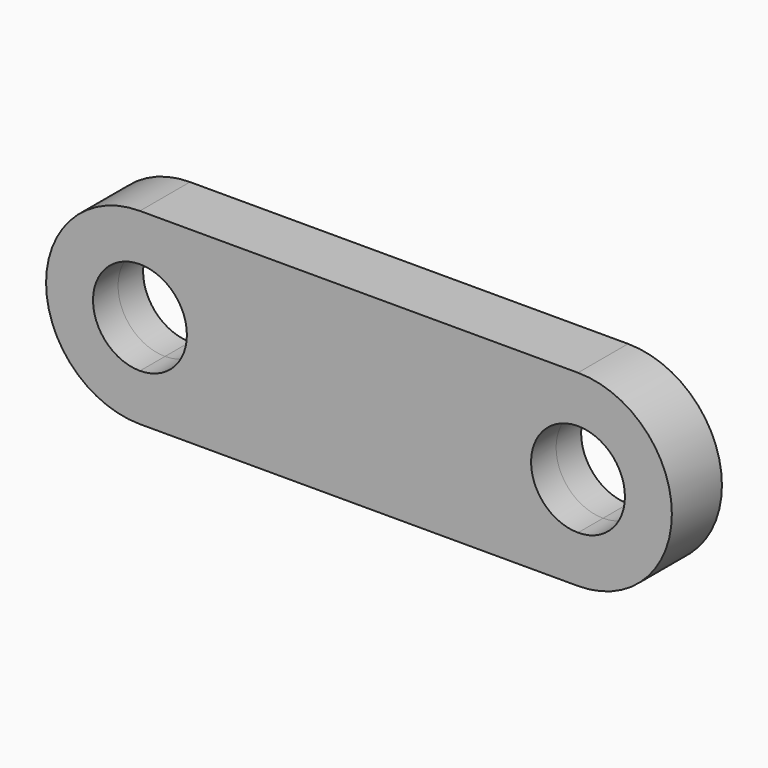
from build123d import *

# Parameters (mm, degrees)
F1_DEPTH = 0.5


with BuildPart() as f1:
    # F0 (on Front) → F1 (new body, symmetric)
    with BuildSketch(Plane.XZ):
        with BuildLine():
            Line((-3.5, 0.75), (-3.5, 1.5))
            ThreePointArc((-3.5, 1.5), (-5, 0), (-3.5, -1.5))
            Line((-3.5, -1.5), (-3.5, -0.75))
            ThreePointArc((-3.5, -0.75), (-4.25, 0), (-3.5, 0.75))
        make_face()
        with BuildLine():
            ThreePointArc((3.5, -1.5), (5, 0), (3.5, 1.5))
            Line((3.5, 1.5), (3.5, 0.75))
            ThreePointArc((3.5, 0.75), (4.0303300859, 0.5303300859), (4.25, 0))
            ThreePointArc((4.25, 0), (4.0303300859, -0.5303300859), (3.5, -0.75))
            Line((3.5, -0.75), (3.5, -1.5))
        make_face()
        with BuildLine():
            Line((3.5, 1.5), (-3.5, 1.5))
            Line((-3.5, 1.5), (-3.5, 0.75))
            ThreePointArc((-3.5, 0.75), (-2.9696699141, 0.5303300859), (-2.75, 0))
            ThreePointArc((-2.75, 0), (-2.9696699141, -0.5303300859), (-3.5, -0.75))
            Line((-3.5, -0.75), (-3.5, -1.5))
            Line((-3.5, -1.5), (3.5, -1.5))
            Line((3.5, -1.5), (3.5, -0.75))
            ThreePointArc((3.5, -0.75), (2.75, 0), (3.5, 0.75))
            Line((3.5, 0.75), (3.5, 1.5))
        make_face()
    extrude(amount=F1_DEPTH, both=True)


solid = f1.part
